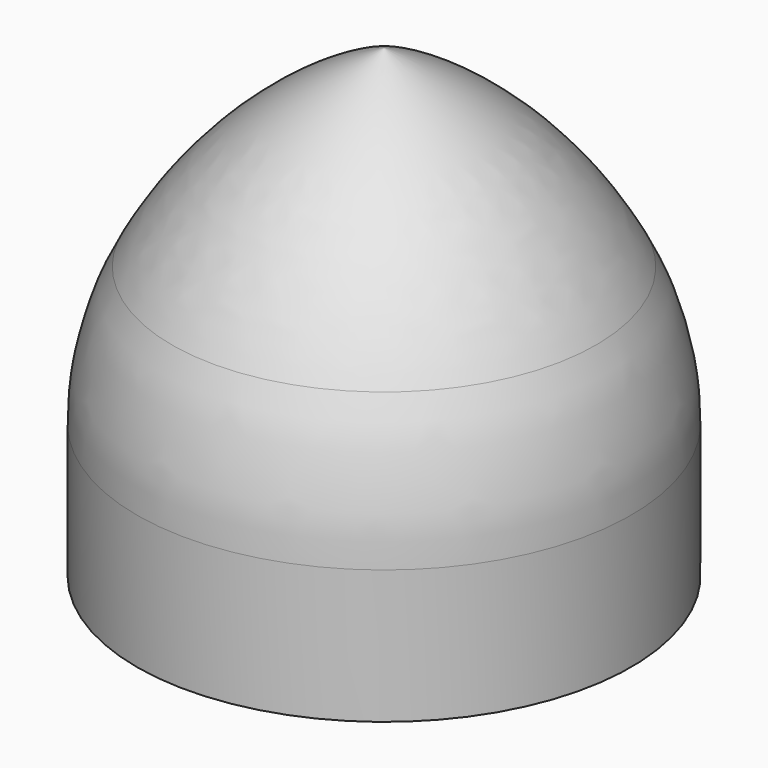
from build123d import *

# Parameters (mm, degrees)
F2_R = 3.302


with BuildPart() as f1:
    # F0 (on Front) → F1 (revolve)
    with BuildSketch(Plane.XZ):
        with BuildLine():
            Line((-2.794, 0), (0, 0))
            Line((0, 0), (0, 5.253507))
            ThreePointArc((0, 5.253507), (-1.756004, 3.998038), (-2.794, 2.105338))
            Line((-2.794, 2.105338), (-2.794, 0))
        make_face()
    revolve(axis=Axis((0, 0, 2.626754), (0, 0, 1)))

    # F2
    f2_edges = [f1.edges().sort_by_distance(p)[0] for p in [
        (2.794, 0, 2.105338),
    ]]
    fillet(f2_edges, radius=F2_R)


solid = f1.part
